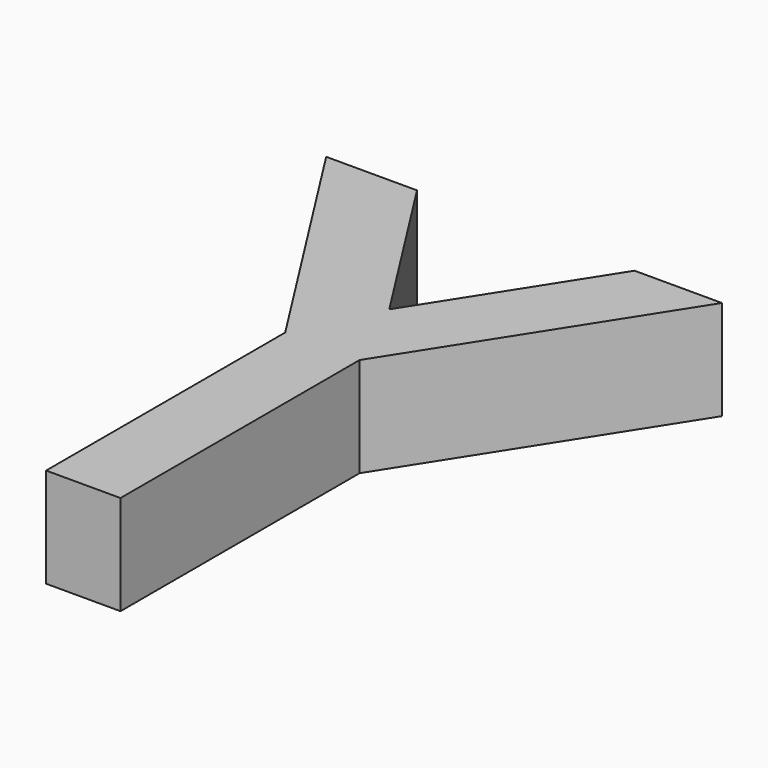
from build123d import *

# Parameters (mm, degrees)
F1_DEPTH = 10


with BuildPart() as f1:
    # F0 (on Top) → F1 (new body)
    with BuildSketch(Plane.XY):
        Polygon((21.119604, 31.836453), (18.428353, 27.614467), (18.428353, -2.385533), (22.162743, -2.385533), (22.162743, 27.614467), (38.288332, 52.912004), (34.553942, 52.912004), align=None)
        Polygon((2.302764, 52.912004), (18.428353, 27.614467), (21.119604, 31.836453), (18.601938, 35.786123), (7.685266, 52.912004), align=None)
        Polygon((18.428353, -2.385533), (18.428353, 27.614467), (2.302764, 52.912004), (-1.431626, 52.912004), (14.693964, 27.614467), (14.693964, -2.385533), align=None)
        Polygon((18.601938, 35.786123), (21.119604, 31.836453), (34.553942, 52.912004), (29.51861, 52.912004), align=None)
    extrude(amount=F1_DEPTH)


solid = f1.part
